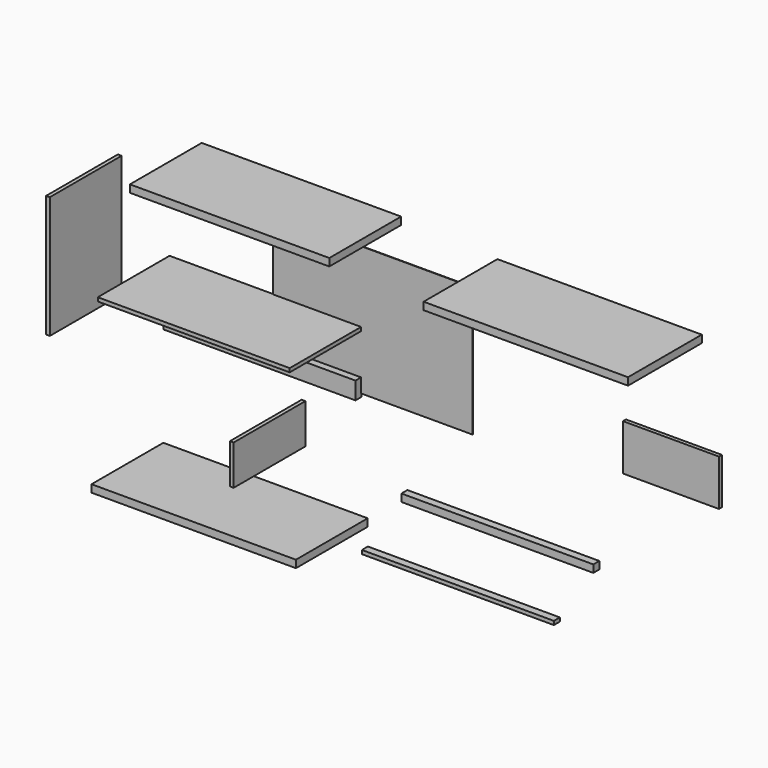
from build123d import *

# Parameters (mm, degrees)
F0_W      = 1016
F0_H      = 457.2
F1_DEPTH  = 38.1
F2_W      = 19.05
F2_H      = 622.3
F3_DEPTH  = 457.2
F4_W      = 977.9
F4_H      = 19.05
F5_DEPTH  = 457.2
F6_W      = 977.9
F6_H      = 88.9
F7_DEPTH  = 38.1
F8_W      = 1016
F8_H      = 660.4
F9_DEPTH  = 2.54
F10_W     = 19.05
F10_H     = 203.2
F11_DEPTH = 457.2
F12_W     = 1041.4
F12_H     = 38.1
F13_DEPTH = 457.2
F14_W     = 977.9
F14_H     = 38.1
F15_DEPTH = 38.1
F16_W     = 977.9
F16_H     = 19.05
F17_DEPTH = 38.1
F18_W     = 488.95
F18_H     = 234.95
F19_DEPTH = 19.05
F20_W     = 1041.4
F20_H     = 38.1
F21_DEPTH = 469.9


with BuildPart() as f1:
    # F0 (on Top) → F1 (new body)
    with BuildSketch(Plane.XY):
        Rectangle(F0_W, F0_H)
    extrude(amount=F1_DEPTH)


with BuildPart() as f3:
    # F2 (on Front) → F3 (new body)
    with BuildSketch(Plane.XZ):
        with Locations((-742.749031, -311.15)):
            Rectangle(F2_W, F2_H)
    extrude(amount=F3_DEPTH)


with BuildPart() as f5:
    # F4 (on Front) → F5 (new body)
    with BuildSketch(Plane.XZ):
        with Locations((0, -378.617166)):
            Rectangle(F4_W, F4_H)
    extrude(amount=F5_DEPTH)


with BuildPart() as f7:
    # F6 (on Front) → F7 (new body)
    with BuildSketch(Plane.XZ):
        with Locations((0, -639.848528)):
            Rectangle(F6_W, F6_H)
    extrude(amount=F7_DEPTH)


with BuildPart() as f9:
    # F8 (on Front) → F9 (new body)
    with BuildSketch(Plane.XZ):
        with Locations((549.424427, -337.231815)):
            Rectangle(F8_W, F8_H)
    extrude(amount=F9_DEPTH)


with BuildPart() as f11:
    # F10 (on Front) → F11 (new body)
    with BuildSketch(Plane.XZ):
        with Locations((193.870118, -897.270501)):
            Rectangle(F10_W, F10_H)
    extrude(amount=F11_DEPTH)


with BuildPart() as f13:
    # F12 (on Front) → F13 (new body)
    with BuildSketch(Plane.XZ):
        with Locations((0, -1237.190702)):
            Rectangle(F12_W, F12_H)
    extrude(amount=F13_DEPTH)


with BuildPart() as f15:
    # F14 (on Front) → F15 (new body)
    with BuildSketch(Plane.XZ):
        with Locations((1211.797714, -1044.854864)):
            Rectangle(F14_W, F14_H)
    extrude(amount=F15_DEPTH)


with BuildPart() as f17:
    # F16 (on Front) → F17 (new body)
    with BuildSketch(Plane.XZ):
        with Locations((1010.684609, -1353.92351)):
            Rectangle(F16_W, F16_H)
    extrude(amount=F17_DEPTH)


with BuildPart() as f19:
    # F18 (on Front) → F19 (new body)
    with BuildSketch(Plane.XZ):
        with Locations((2080.975597, -464.266121)):
            Rectangle(F18_W, F18_H)
    extrude(amount=F19_DEPTH)


with BuildPart() as f21:
    # F20 (on Front) → F21 (new body)
    with BuildSketch(Plane.XZ):
        with Locations((1702.146649, 140.076977)):
            Rectangle(F20_W, F20_H)
    extrude(amount=F21_DEPTH)


solid = Compound([f1.part, f3.part, f5.part, f7.part, f9.part, f11.part, f13.part, f15.part, f17.part, f19.part, f21.part])
